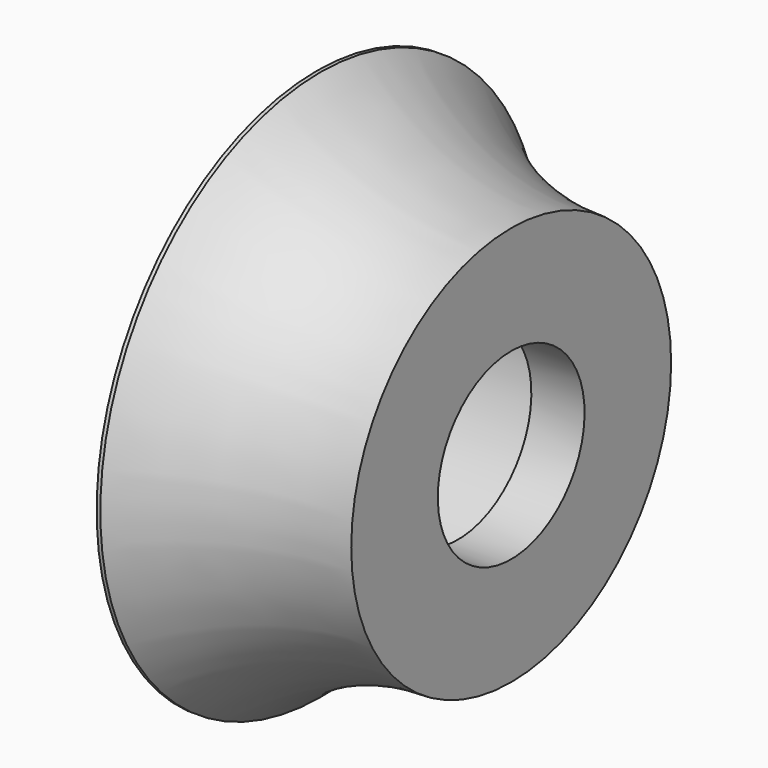
from build123d import *

# Parameters (mm, degrees)
SKETCH010_R     = 8.5
POCKET005_DEPTH = 8
SKETCH011_R     = 5
POCKET006_DEPTH = 10.901


with BuildPart() as part:
    # Sketch009 → Revolution002 (revolve)
    with BuildSketch(Plane.XZ):
        with BuildLine():
            Line((0, 0), (0, 10.9))
            Line((0, 10.9), (0.3, 10.9))
            Line((0.3, 10.9), (0.3, 15))
            Line((0.3, 15), (0.5, 15))
            ThreePointArc((0.5, 15), (5.310502, 11.962006), (10.9, 10.9))
            Line((10.9, 10.9), (10.9, 0))
            Line((10.9, 0), (0, 0))
        make_face()
    revolve(axis=Axis((0, 0, 0), (1, 0, 0)))

    # Sketch010 (on Face1 of Revolution002) → Pocket005 (cut)
    with BuildSketch(Plane(origin=(0, 0, 0), x_dir=(0, 0, -1), z_dir=(-1, 0, 0))):
        Circle(SKETCH010_R)
    extrude(amount=-POCKET005_DEPTH, mode=Mode.SUBTRACT)

    # Sketch011 (on Face8 of Pocket005) → Pocket006 (cut, through all)
    with BuildSketch(Plane(origin=(10.9, 0, 0), x_dir=(0, 0, 1), z_dir=(1, 0, 0))):
        Circle(SKETCH011_R)
    extrude(amount=-POCKET006_DEPTH, mode=Mode.SUBTRACT)


solid = part.part
